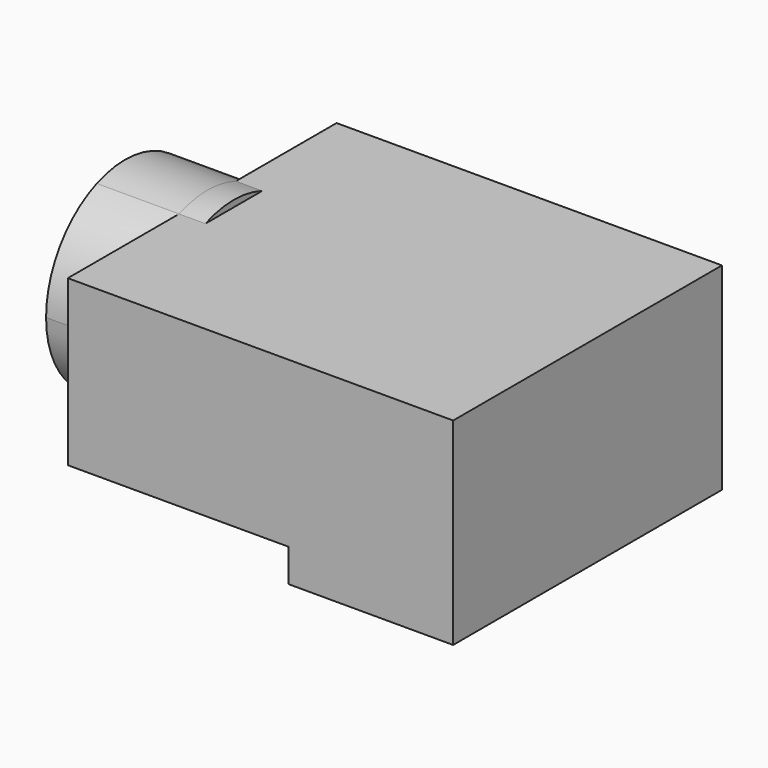
from build123d import *

# Parameters (mm, degrees)
F0_W          = 5
F0_H          = 10.2
F0_W_2        = 6.7
F1_DEPTH      = 5
F2_DEPTH      = 1
F4_DEPTH      = 2.5
F4_DEPTH_BACK = 0.8


with BuildPart() as f1:
    # F0 (on Top) → F1 (new body)
    with BuildSketch(Plane.XY):
        with Locations((9.2, -0.2)):
            Rectangle(F0_W, F0_H)
        with Locations((3.35, -0.2)):
            Rectangle(F0_W_2, F0_H)
    extrude(amount=F1_DEPTH)

    # F0 (on Top) → F2 (join)
    with BuildSketch(Plane.XY):
        with Locations((9.2, -0.2)):
            Rectangle(F0_W, F0_H)
    extrude(amount=-F2_DEPTH)

    # F3 (on face) → F4 (join, two sides)
    with BuildSketch(Plane(origin=(0, 0, 0), x_dir=(0, -1, 0), z_dir=(-1, 0, 0))) as f4_sk:
        with BuildLine():
            ThreePointArc((2.0396078054, 0), (2.7494384351, 0.9997549034), (3, 2.2))
            ThreePointArc((3, 2.2), (2.4729636961, 3.8983670268), (1.0770329614, 5))
            Line((1.0770329614, 5), (-1.0770329614, 5))
            ThreePointArc((-1.0770329614, 5), (-2.9459060435, 2.7671310101), (-2.0396078054, 0))
            Line((-2.0396078054, 0), (2.0396078054, 0))
        make_face()
        with BuildLine():
            Line((-1.0770329614, 5), (1.0770329614, 5))
            ThreePointArc((1.0770329614, 5), (0, 5.2), (-1.0770329614, 5))
        make_face()
        with BuildLine():
            ThreePointArc((-2.0396078054, 0), (0, -0.8), (2.0396078054, 0))
            Line((2.0396078054, 0), (-2.0396078054, 0))
        make_face()
    extrude(amount=F4_DEPTH)
    extrude(f4_sk.sketch, amount=-F4_DEPTH_BACK)


solid = f1.part
